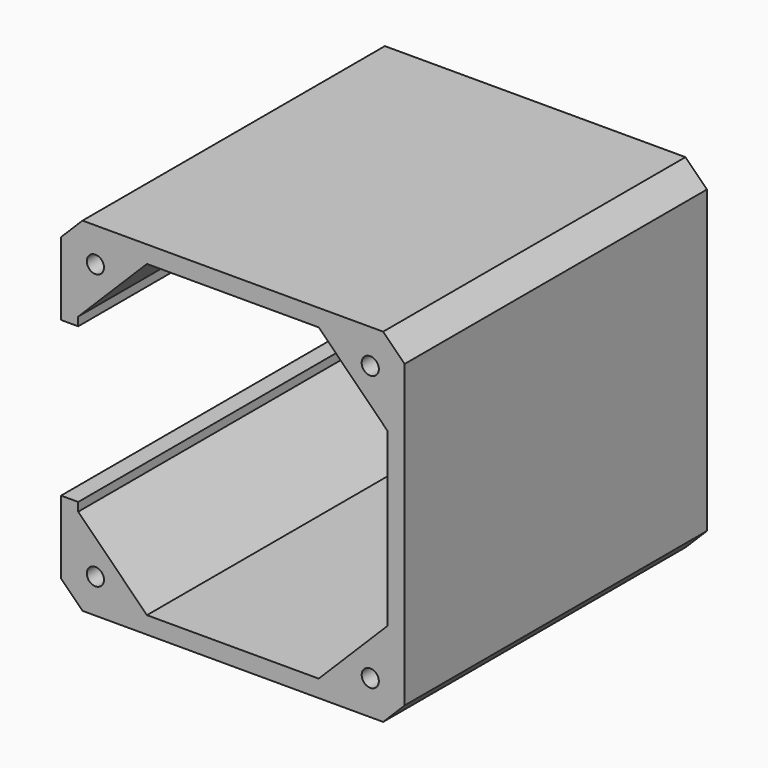
from build123d import *

# Parameters (mm, degrees)
F0_W      = 80
F0_H      = 80
F1_DEPTH  = 8
F2_R      = 4
F3_DEPTH  = 8.001
F5_DEPTH  = 80
F6_SIZE   = 5
F7_R      = 2
F8_DEPTH  = 88.001
F9_R      = 6
F10_DEPTH = 5


with BuildPart() as f1:
    # F0 (on Front) → F1 (new body)
    with BuildSketch(Plane.XZ):
        Rectangle(F0_W, F0_H)
    extrude(amount=F1_DEPTH)

    # F2 (on face) → F3 (cut, through all)
    with BuildSketch(Plane.XZ.offset(8)):
        Circle(F2_R)
    extrude(amount=-F3_DEPTH, mode=Mode.SUBTRACT)

    # F4 (on face) → F5 (join)
    with BuildSketch(Plane.XZ.offset(8)):
        Polygon((40, 40), (-40, 40), (-40, 18), (-36, 18), (-36, 20), (-20, 36), (20, 36), (36, 20), (36, 0), (36, -20), (20, -36), (-20, -36), (-36, -20), (-36, -18), (-40, -18), (-40, -40), (40, -40), align=None)
    extrude(amount=F5_DEPTH)

    # F6
    f6_edges = [f1.edges().sort_by_distance(p)[0] for p in [
        (-40, -44, 40),
        (40, -44, 40),
        (-40, -44, -40),
        (40, -44, -40),
    ]]
    chamfer(f6_edges, length=F6_SIZE)

    # F7 (on face) → F8 (cut, through all)
    with BuildSketch(Plane.XZ.offset(88)):
        with Locations((-32, 32)):
            Circle(F7_R)
        with Locations((-32, -32)):
            Circle(F7_R)
        with Locations((32, -32)):
            Circle(F7_R)
        with Locations((32, 32)):
            Circle(F7_R)
    extrude(amount=-F8_DEPTH, mode=Mode.SUBTRACT)

    # F9 (on face) → F10 (cut)
    with BuildSketch(Plane.XZ.offset(8)):
        Circle(F9_R)
    extrude(amount=-F10_DEPTH, mode=Mode.SUBTRACT)


solid = f1.part
